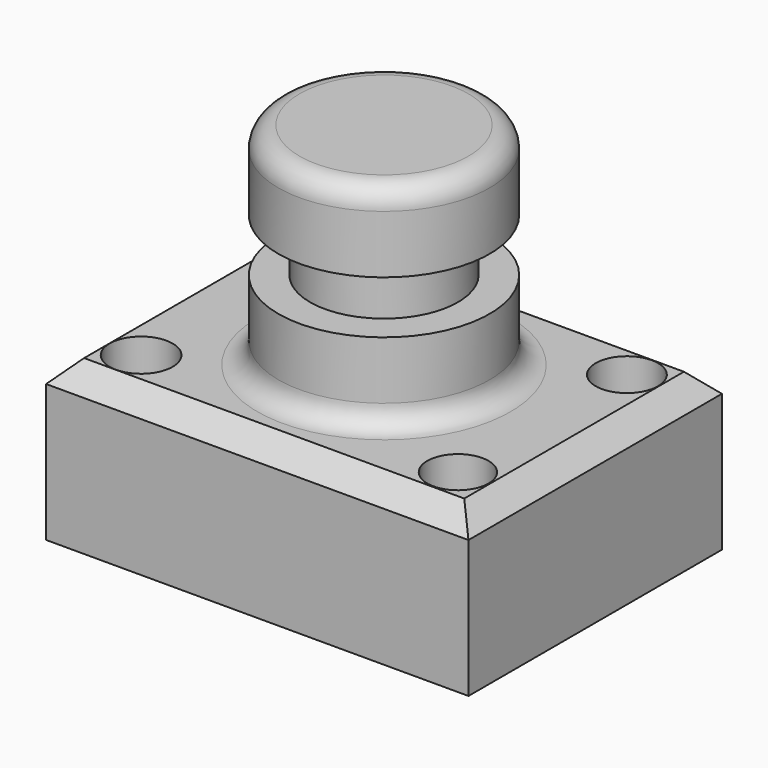
from build123d import *

# Parameters (mm, degrees)
F0_W     = 101.6
F0_H     = 76.2
F1_DEPTH = 38.1
F2_R     = 7.453167
F2_R_2   = 7.587908
F2_R_3   = 7.50333
F2_R_4   = 7.364953
F3_DEPTH = 38.101
F4_W     = 25.4
F4_H     = 50.8
F6_W     = 12.7
F6_H     = 12.7
F8_R     = 5.08
F9_SIZE  = 5.08


with BuildPart() as f1:
    # F0 (on Top) → F1 (new body)
    with BuildSketch(Plane.XY):
        Rectangle(F0_W, F0_H)
    extrude(amount=F1_DEPTH)

    # F2 (on Top) → F3 (cut, through all)
    with BuildSketch(Plane.XY):
        with Locations((-38.1, 25.4)):
            Circle(F2_R)
        with Locations((-38.1, -25.4)):
            Circle(F2_R_2)
        with Locations((38.1, 25.4)):
            Circle(F2_R_3)
        with Locations((38.1, -25.4)):
            Circle(F2_R_4)
    extrude(amount=F3_DEPTH, mode=Mode.SUBTRACT)

    # F4 (on Front) → F5 (revolve)
    with BuildSketch(Plane.XZ):
        with Locations((-12.7, 63.5)):
            Rectangle(F4_W, F4_H)
    revolve(axis=Axis((0, 0, 63.5), (0, 0, 1)))

    # F6 (on Front) → F7 (revolve, cut)
    with BuildSketch(Plane.XZ):
        with Locations((-24.13, 63.5)):
            Rectangle(F6_W, F6_H)
    revolve(axis=Axis((0, 0, 88.9), (0, 0, -1)), mode=Mode.SUBTRACT)

    # F8
    f8_edges = [f1.edges().sort_by_distance(p)[0] for p in [
        (25.4, 0, 88.9),
        (25.4, 0, 38.1),
    ]]
    fillet(f8_edges, radius=F8_R)

    # F9
    f9_edges = [f1.edges().sort_by_distance(p)[0] for p in [
        (0, -38.1, 38.1),
        (50.8, 0, 38.1),
        (0, 38.1, 38.1),
        (-50.8, 0, 38.1),
    ]]
    chamfer(f9_edges, length=F9_SIZE)


solid = f1.part
